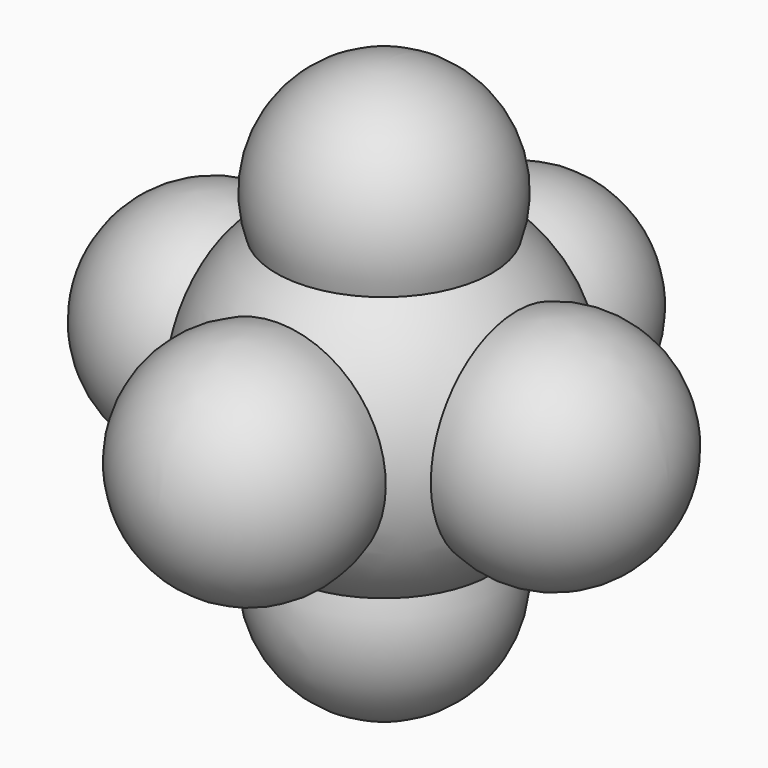
from build123d import *


with BuildPart() as f1:
    # F0 (on Front) → F1 (revolve)
    with BuildSketch(Plane.XZ):
        with BuildLine():
            Line((0, 38.1), (0, -38.1))
            ThreePointArc((0, -38.1), (38.1, 0), (0, 38.1))
        make_face()
    revolve(axis=Axis((0, 0, 0), (0, 0, -1)))

    # F2 (on Right) → F3 (revolve)
    with BuildSketch(Plane.YZ):
        with BuildLine():
            Line((0, 63.135213), (0, 12.335213))
            ThreePointArc((0, 12.335213), (25.4, 37.735213), (0, 63.135213))
        make_face()
    revolve(axis=Axis((0, 0, 37.735213), (0, 0, -1)))

    # F2 (on Right) → F4 (revolve)
    with BuildSketch(Plane.YZ):
        with BuildLine():
            ThreePointArc((-12.335213, 0), (-37.735213, 25.4), (-63.135213, 0))
            Line((-63.135213, 0), (-12.335213, 0))
        make_face()
    revolve(axis=Axis((0, -37.735213, 0), (0, 1, 0)))

    # F2 (on Right) → F5 (revolve)
    with BuildSketch(Plane.YZ):
        with BuildLine():
            ThreePointArc((0, -12.335213), (-25.4, -37.735213), (0, -63.135213))
            Line((0, -63.135213), (0, -12.335213))
        make_face()
    revolve(axis=Axis((0, 0, -37.735213), (0, 0, 1)))

    # F2 (on Right) → F6 (revolve)
    with BuildSketch(Plane.YZ):
        with BuildLine():
            ThreePointArc((12.335213, 0), (37.735213, -25.4), (63.135213, 0))
            Line((63.135213, 0), (12.335213, 0))
        make_face()
    revolve(axis=Axis((0, 37.735213, 0), (0, -1, 0)))

    # F7 (on Front) → F8 (revolve)
    with BuildSketch(Plane.XZ):
        with BuildLine():
            Line((-63.412182, 0), (-12.612182, 0))
            ThreePointArc((-12.612182, 0), (-38.012182, 25.4), (-63.412182, 0))
        make_face()
    revolve(axis=Axis((-38.012182, 0, 0), (1, 0, 0)))

    # F7 (on Front) → F9 (revolve)
    with BuildSketch(Plane.XZ):
        with BuildLine():
            Line((12.612182, 0), (63.412182, 0))
            ThreePointArc((63.412182, 0), (38.012182, 25.4), (12.612182, 0))
        make_face()
    revolve(axis=Axis((38.012182, 0, 0), (-1, 0, 0)))


solid = f1.part
